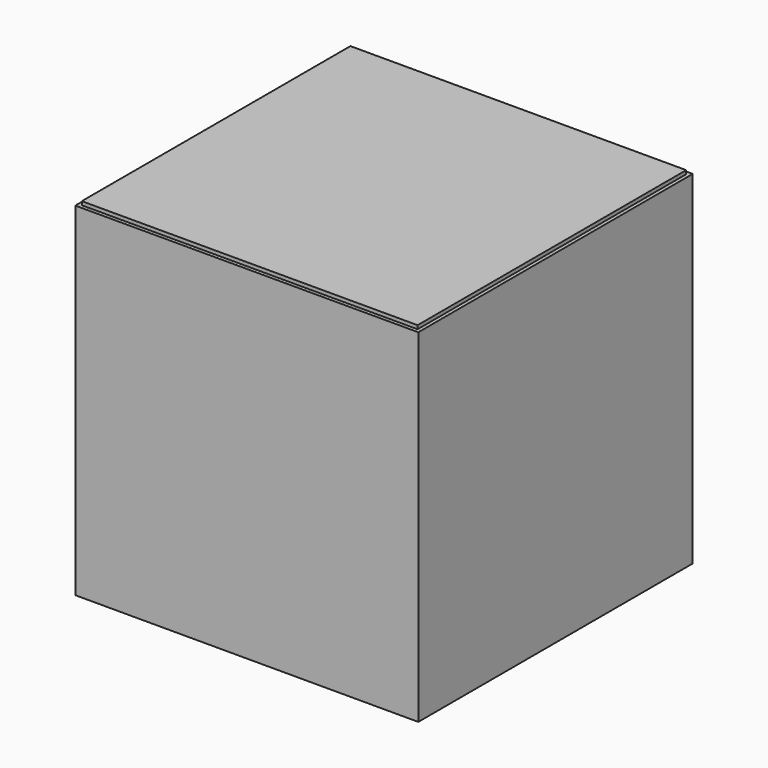
from build123d import *

# Parameters (mm, degrees)
F2_W     = 95
F2_H     = 95
F3_DEPTH = 47.5
F4_T     = -1
F5_W     = 93
F5_H     = 93
F6_DEPTH = 1


with BuildPart() as f1:
    # F0 (on Front) → F1 (revolve)
    with BuildSketch(Plane.XZ):
        with BuildLine():
            Line((-45, 0), (45, 0))
            ThreePointArc((45, 0), (0, 45), (-45, 0))
        make_face()
    revolve(axis=Axis((0, 0, 0), (1, 0, 0)))


with BuildPart() as f3:
    # F2 (on Front) → F3 (new body, symmetric)
    with BuildSketch(Plane.XZ):
        Rectangle(F2_W, F2_H)
    extrude(amount=F3_DEPTH, both=True)

    # F4
    f4_openings = [f3.faces().sort_by_distance(p)[0] for p in [
        (0, 0, 47.5),
    ]]
    offset(amount=F4_T, openings=f4_openings)


with BuildPart() as f6:
    # F5 (on face) → F6 (new body)
    with BuildSketch(Plane.XY.offset(47.5)):
        Rectangle(F5_W, F5_H)
    extrude(amount=F6_DEPTH)


solid = Compound([f1.part, f3.part, f6.part])
